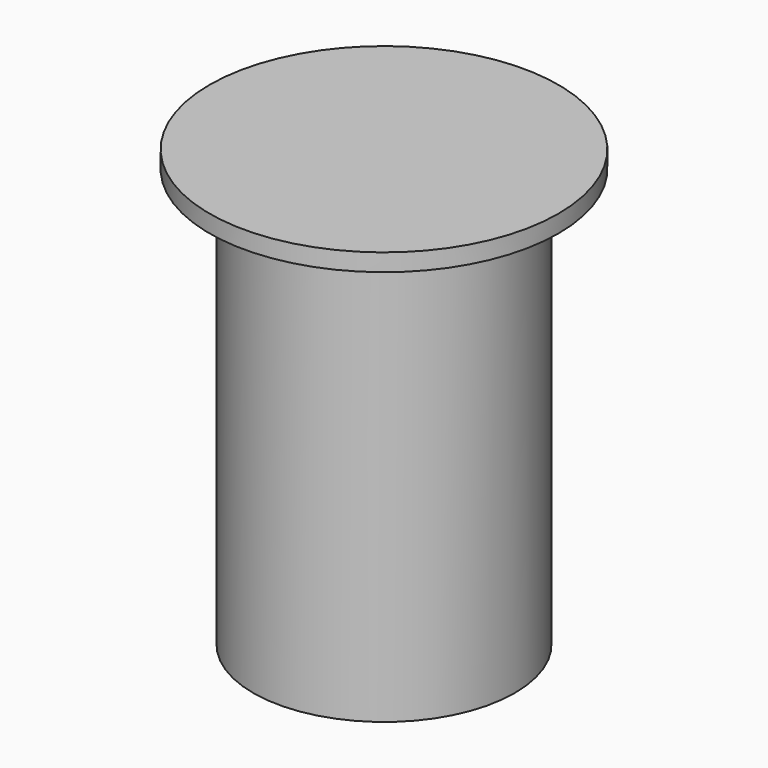
from build123d import *

# Parameters (mm, degrees)
F1_R     = 100
F1_R_2   = 75
F2_DEPTH = 10
F3_DEPTH = 250


with BuildPart() as f2:
    # F1 (on face) → F2 (new body)
    with BuildSketch(Plane.XY):
        Circle(F1_R)
        Circle(F1_R_2, mode=Mode.SUBTRACT)
    extrude(amount=-F2_DEPTH)

    # F1 (on face) → F3 (join)
    with BuildSketch(Plane.XY):
        Circle(F1_R_2)
    extrude(amount=-F3_DEPTH)


solid = f2.part
